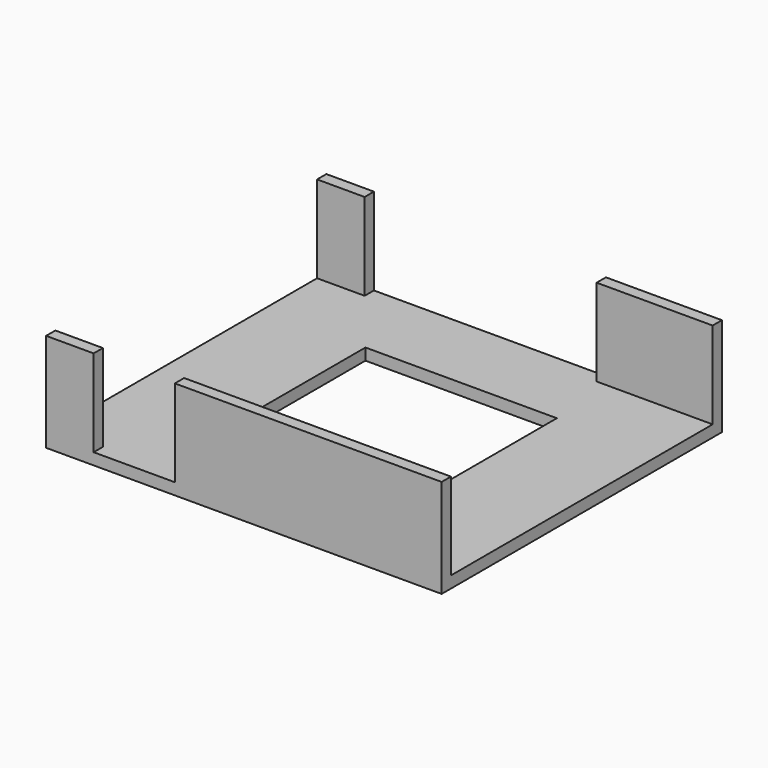
from build123d import *

# Parameters (mm, degrees)
SKETCH121_W      = 33
SKETCH121_H      = 33
EXTRUDE110_DEPTH = 4
SKETCH116_W      = 4
SKETCH116_H      = 36
SKETCH116_W_2    = 40
SKETCH116_H_2    = 4
SKETCH116_W_3    = 14
EXTRUDE105_DEPTH = 16.5
EXTRUDE104_DEPTH = 68.2


with BuildPart() as extrude110:
    # Sketch121 → Extrude110 (new body)
    with BuildSketch(Plane(origin=(0, 0, -13), x_dir=(1, 0, 0), z_dir=(0, 0, -1))):
        with Locations((32, -51)):
            Rectangle(SKETCH121_W, SKETCH121_H)
    extrude(amount=EXTRUDE110_DEPTH)


with BuildPart() as compound027:
    # Sketch116 → Extrude105 (new body)
    with BuildSketch(Plane.XY.offset(3)):
        with Locations((-1, 51)):
            Rectangle(SKETCH116_W, SKETCH116_H)
        with Locations((26, 80)):
            Rectangle(SKETCH116_W_2, SKETCH116_H_2)
        with Locations((13, 22)):
            Rectangle(SKETCH116_W_3, SKETCH116_H_2)
    extrude(amount=-EXTRUDE105_DEPTH)

    # Compound027: union Extrude110
    add(extrude110.part)


with BuildPart() as cut018:
    # Sketch115 → Extrude104 (new body)
    with BuildSketch(Plane.YZ.offset(-2.2)):
        Polygon((20.8, 1.5), (22.8, 1.5), (22.8, -13.5), (79.2, -13.5), (79.2, 1.5), (81.2, 1.5), (81.2, -15.5), (20.8, -15.5), align=None)
    extrude(amount=EXTRUDE104_DEPTH)

    # Cut018: cut Compound027
    add(compound027.part, mode=Mode.SUBTRACT)


solid = cut018.part
